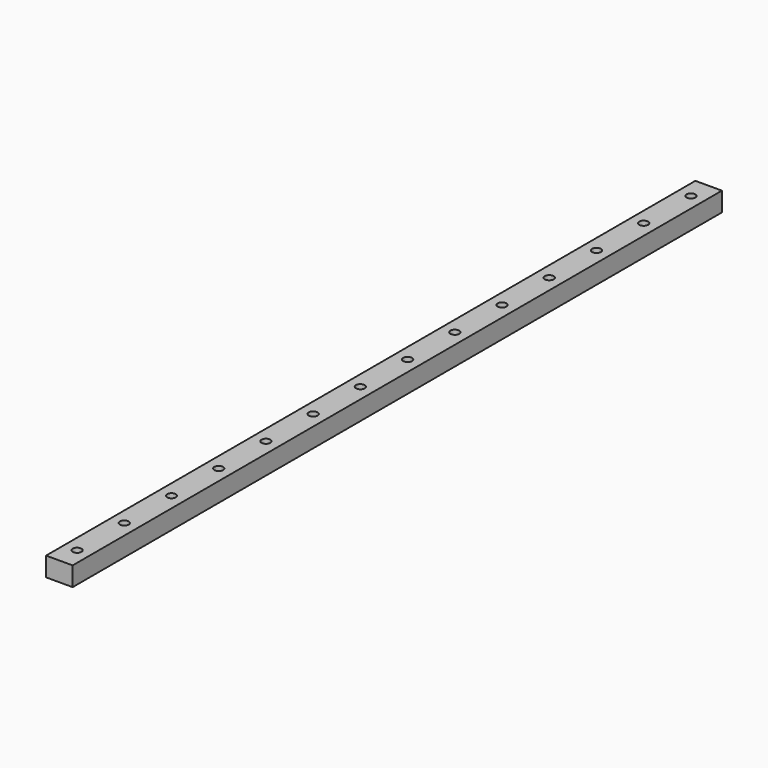
from build123d import *

# Parameters (mm, degrees)
SKETCH010_W            = 9
SKETCH010_H            = 275
PAD005_DEPTH           = 6.5
SKETCH011_R            = 1.5
POCKET009_DEPTH        = 6.5
LINEARPATTERN002_COUNT = 14
LINEARPATTERN002_PITCH = 20


with BuildPart() as part:
    # Sketch010 → Pad005 (new body)
    with BuildSketch(Plane.XY):
        with Locations((-4.5, 137.5)):
            Rectangle(SKETCH010_W, SKETCH010_H)
    extrude(amount=PAD005_DEPTH)

    # Sketch011 (on Face6 of Pad005) → Pocket009 (cut)
    with BuildSketch(Plane.XY.offset(6.5)):
        with Locations((-4.5, 7.5)):
            Circle(SKETCH011_R)
    pocket009 = extrude(amount=-POCKET009_DEPTH, mode=Mode.SUBTRACT)

    # LinearPattern002: Pocket009 ×14
    with Locations(*[(0, i * LINEARPATTERN002_PITCH, 0) for i in range(1, LINEARPATTERN002_COUNT)]):
        add(pocket009, mode=Mode.SUBTRACT)


solid = part.part
